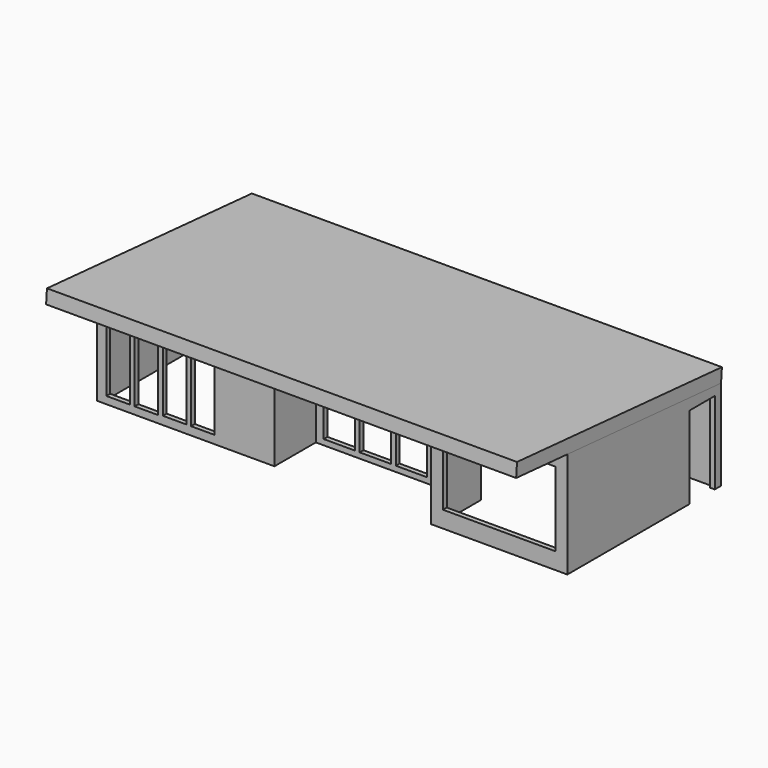
from build123d import *

# Parameters (mm, degrees)
F1_DEPTH  = 27
F2_W      = 6
F2_H      = 23
F3_DEPTH  = 1.2
F4_W      = 13
F4_H      = 14
F4_W_2    = 16
F4_H_2    = 7
F5_DEPTH  = 1.2
F6_W      = 28.721702
F6_H      = 19
F7_DEPTH  = 1.2
F8_W      = 8
F8_H      = 20.218185
F8_H_2    = 20.07273
F9_DEPTH  = 1.2
F10_W     = 8
F10_H     = 21
F11_DEPTH = 1.2
F13_DEPTH = 120.001
F14_W     = 119.900497
F14_H     = 65.543256
F15_DEPTH = 3.5


with BuildPart() as f1:
    # F0 (on Top) → F1 (new body)
    with BuildSketch(Plane.XY):
        Polygon((43.620902, 49), (-76.379098, 49), (-76.379098, 0), (-31.1008, 0), (-31.1008, 1.2), (-31.1008, 13.2), (8.8992, 13.2), (8.8992, 1.2), (8.8992, 0), (43.620902, 0), align=None)
        Polygon((-75.179098, 31.661995), (-75.179098, 47.8), (42.420902, 47.8), (42.420902, 37.8), (25.420902, 37.8), (25.420902, 36.6), (42.420902, 36.6), (42.420902, 1.2), (10.0992, 1.2), (10.0992, 14.4), (-32.3008, 14.4), (-32.3008, 1.2), (-75.179098, 1.2), (-75.179098, 30.8), (-44.855535, 30.8), (-44.855535, 9.2), (-43.655535, 9.2), (-43.655535, 39.8), (-44.855535, 39.8), (-44.855535, 31.661995), align=None, mode=Mode.SUBTRACT)
    extrude(amount=F1_DEPTH)

    # F2 (on face) → F3 (cut)
    with BuildSketch(Plane.XZ):
        with Locations((-70.970154, 13.362575)):
            Rectangle(F2_W, F2_H)
        with Locations((-63.770154, 13.362575)):
            Rectangle(F2_W, F2_H)
        with Locations((-56.570154, 13.593571)):
            Rectangle(F2_W, F2_H)
        with Locations((-49.370154, 13.593571)):
            Rectangle(F2_W, F2_H)
    extrude(amount=-F3_DEPTH, mode=Mode.SUBTRACT)

    # F4 (on face) → F5 (cut)
    with BuildSketch(Plane(origin=(-76.379098, 0, 0), x_dir=(0, -1, 0), z_dir=(-1, 0, 0))):
        with Locations((-39.280942, 14)):
            Rectangle(F4_W, F4_H)
        with Locations((-15.271928, 17.366726)):
            Rectangle(F4_W_2, F4_H_2)
    extrude(amount=-F5_DEPTH, mode=Mode.SUBTRACT)

    # F6 (on face) → F7 (cut)
    with BuildSketch(Plane.XZ):
        with Locations((26.260051, 13.734649)):
            Rectangle(F6_W, F6_H)
    extrude(amount=-F7_DEPTH, mode=Mode.SUBTRACT)

    # F8 (on face) → F9 (cut)
    with BuildSketch(Plane.XZ.offset(-13.2)):
        with Locations((-25.1008, 11.517837)):
            Rectangle(F8_W, F8_H)
        with Locations((-15.9008, 11.517837)):
            Rectangle(F8_W, F8_H)
        with Locations((-6.7008, 11.517837)):
            Rectangle(F8_W, F8_H)
        with Locations((2.4992, 11.590565)):
            Rectangle(F8_W, F8_H_2)
    extrude(amount=-F9_DEPTH, mode=Mode.SUBTRACT)

    # F10 (on face) → F11 (cut)
    with BuildSketch(Plane.YZ.offset(43.620902)):
        with Locations((43, 10.5)):
            Rectangle(F10_W, F10_H)
    extrude(amount=-F11_DEPTH, mode=Mode.SUBTRACT)

    # F12 (on face) → F13 (cut, through all)
    with BuildSketch(Plane(origin=(-76.379098, 0, 0), x_dir=(0, -1, 0), z_dir=(-1, 0, 0))):
        Polygon((-49, 27), (-49, 23.057433), (0, 27), align=None)
    extrude(amount=-F13_DEPTH, mode=Mode.SUBTRACT)


with BuildPart() as f15:
    # F14 (on face) → F15 (new body)
    with BuildSketch(Plane(origin=(0, 2.158461, 26.826329), x_dir=(1, 0, 0), z_dir=(0, 0.080201, 0.996779))):
        with Locations((-16.329346, 14.22129)):
            Rectangle(F14_W, F14_H)
    extrude(amount=F15_DEPTH)


solid = Compound([f1.part, f15.part])
